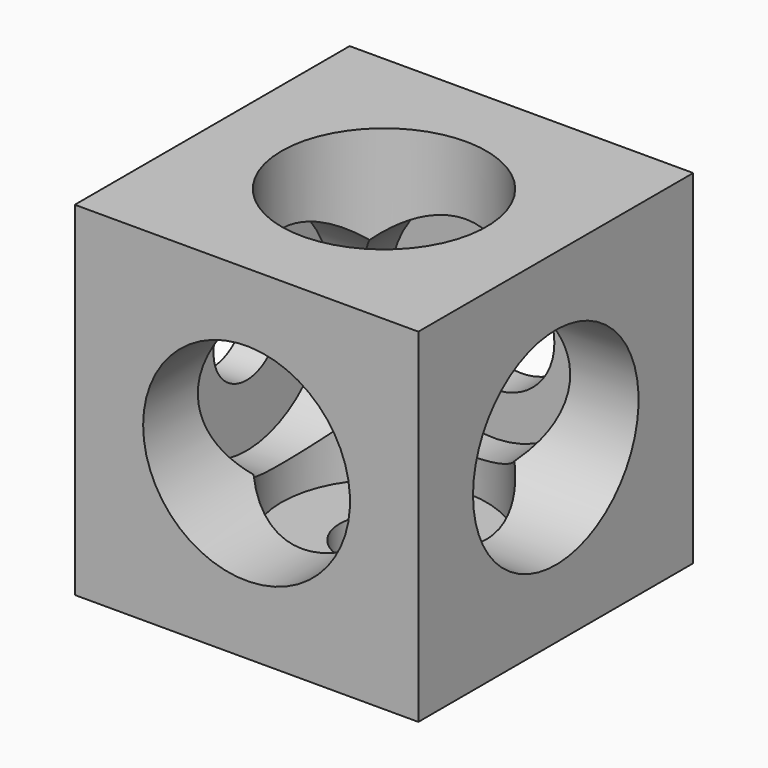
from build123d import *

# Parameters (mm, degrees)
SKETCH081_W     = 20
SKETCH081_H     = 20
PAD024_DEPTH    = 10
SKETCH082_R     = 5.966215
POCKET054_DEPTH = 18
SKETCH083_R     = 2.581292
POCKET055_DEPTH = 2
SKETCH084_R     = 6.020554
POCKET056_DEPTH = 18
SKETCH085_R     = 3.518198
POCKET057_DEPTH = 2
SKETCH086_R     = 6.023017
POCKET058_DEPTH = 18
SKETCH087_R     = 2.40921
POCKET059_DEPTH = 2


with BuildPart() as part:
    # Sketch081 → Pad024 (new body, symmetric)
    with BuildSketch(Plane(origin=(451.8, 0, 451.8), x_dir=(-1, 0, 0), z_dir=(0, 0, -1))):
        Rectangle(SKETCH081_W, SKETCH081_H)
    extrude(amount=PAD024_DEPTH, both=True)

    # Sketch082 → Pocket054 (cut)
    with BuildSketch(Plane(origin=(451.8, 0, 461.8), x_dir=(-1, 0, 0), z_dir=(0, 0, 1))):
        Circle(SKETCH082_R)
    extrude(amount=-POCKET054_DEPTH, mode=Mode.SUBTRACT)

    # Sketch083 → Pocket055 (cut)
    with BuildSketch(Plane(origin=(451.8, 0, 441.8), x_dir=(-1, 0, 0), z_dir=(0, 0, -1))):
        Circle(SKETCH083_R)
    extrude(amount=-POCKET055_DEPTH, mode=Mode.SUBTRACT)

    # Sketch084 → Pocket056 (cut)
    with BuildSketch(Plane(origin=(451.8, -10, 451.8), x_dir=(-1, 0, 0), z_dir=(0, -1, 0))):
        Circle(SKETCH084_R)
    extrude(amount=-POCKET056_DEPTH, mode=Mode.SUBTRACT)

    # Sketch085 → Pocket057 (cut)
    with BuildSketch(Plane(origin=(451.8, 10, 451.8), x_dir=(1, 0, 0), z_dir=(0, 1, 0))):
        Circle(SKETCH085_R)
    extrude(amount=-POCKET057_DEPTH, mode=Mode.SUBTRACT)

    # Sketch086 → Pocket058 (cut)
    with BuildSketch(Plane(origin=(461.8, 0, 451.8), x_dir=(0, -1, 0), z_dir=(1, 0, 0))):
        Circle(SKETCH086_R)
    extrude(amount=-POCKET058_DEPTH, mode=Mode.SUBTRACT)

    # Sketch087 → Pocket059 (cut)
    with BuildSketch(Plane(origin=(441.8, 0, 451.8), x_dir=(0, 1, 0), z_dir=(-1, 0, 0))):
        Circle(SKETCH087_R)
    extrude(amount=-POCKET059_DEPTH, mode=Mode.SUBTRACT)


solid = part.part
